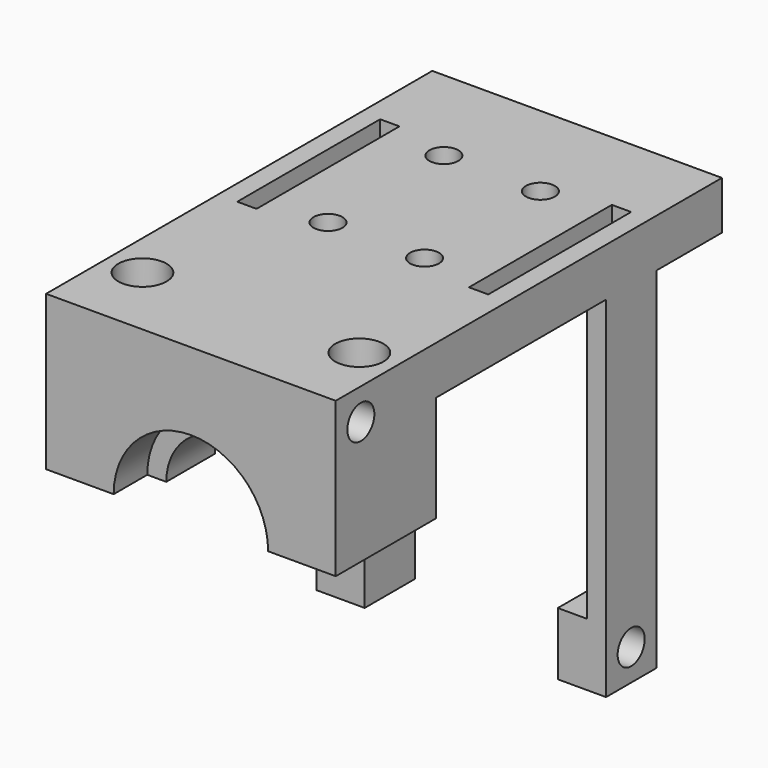
from build123d import *

# Parameters (mm, degrees)
SKETCH_W        = 30
SKETCH_H        = 50
PAD_DEPTH       = 5
SKETCH002_W     = 30
SKETCH002_H     = 13
PAD001_DEPTH    = 11
GROOVE_ANGLE    = 180
SKETCH004_R     = 2.5
POCKET_DEPTH    = 4
SKETCH005_R     = 1.5
POCKET001_DEPTH = 5
SKETCH006_R     = 3.5
POCKET002_DEPTH = 3
SKETCH008_R     = 1.75
POCKET003_DEPTH = 3
SKETCH009_W     = 2
SKETCH009_H     = 6.5
PAD002_DEPTH    = 36.25
SKETCH010_W     = 6.5
SKETCH010_H     = 6.5
PAD003_DEPTH    = 3
SKETCH011_R     = 1.75
POCKET004_DEPTH = 3
SKETCH012_W     = 2
SKETCH012_H     = 6.5000000001
PAD004_DEPTH    = 36.25
SKETCH013_W     = 6.5
SKETCH013_H     = 6.5
PAD005_DEPTH    = 3
SKETCH014_R     = 1.75
POCKET005_DEPTH = 3
SKETCH015_W     = 2
SKETCH015_H     = 18.5
POCKET006_DEPTH = 5
SKETCH034_R     = 2.5
POCKET013_DEPTH = 3


with BuildPart() as part:
    # Sketch → Pad (new body)
    with BuildSketch(Plane.XY):
        with Locations((15, 25)):
            Rectangle(SKETCH_W, SKETCH_H)
    extrude(amount=PAD_DEPTH)

    # Sketch002 (on Face5 of Pad) → Pad001 (join)
    with BuildSketch(Plane(origin=(0, 0, 0), x_dir=(1, 0, 0), z_dir=(0, 0, -1))):
        with Locations((15, -6.5)):
            Rectangle(SKETCH002_W, SKETCH002_H)
    extrude(amount=PAD001_DEPTH)

    # Sketch003 (on Face10 of Pad001) → Groove (revolve, cut)
    with BuildSketch(Plane(origin=(0, 0, -11), x_dir=(1, 0, 0), z_dir=(0, 0, -1))):
        Polygon((7, -13), (7, -10.65), (8.97, -10.65), (8.97, -4.35), (7, -4.35), (7, 1), (15, 1), (15, -13), align=None)
    revolve(axis=Axis((15, -1, -11), (0, 1, 0)), revolution_arc=GROOVE_ANGLE, mode=Mode.SUBTRACT)

    # Sketch004 (on Face10 of Groove) → Pocket (cut)
    with BuildSketch(Plane(origin=(0, 0, -11), x_dir=(1, 0, 0), z_dir=(0, 0, -1))):
        with Locations((3.5, -6.5)):
            Circle(SKETCH004_R)
        with Locations((26.5, -6.5)):
            Circle(SKETCH004_R)
    extrude(amount=-POCKET_DEPTH, mode=Mode.SUBTRACT)

    # Sketch005 (on Face7 of Pocket) → Pocket001 (cut)
    with BuildSketch(Plane(origin=(0, 0, 0), x_dir=(1, 0, 0), z_dir=(0, 0, -1))):
        with Locations((10, -24)):
            Circle(SKETCH005_R)
        with Locations((20, -24)):
            Circle(SKETCH005_R)
        with Locations((10, -39)):
            Circle(SKETCH005_R)
        with Locations((20, -39)):
            Circle(SKETCH005_R)
    extrude(amount=-POCKET001_DEPTH, mode=Mode.SUBTRACT)

    # Sketch006 (on Face7 of Pocket001) → Pocket002 (cut)
    with BuildSketch(Plane(origin=(0, 0, 0), x_dir=(1, 0, 0), z_dir=(0, 0, -1))):
        with Locations((10, -39)):
            Circle(SKETCH006_R)
        with Locations((10, -24)):
            Circle(SKETCH006_R)
        with Locations((20, -24)):
            Circle(SKETCH006_R)
        with Locations((20, -39)):
            Circle(SKETCH006_R)
    extrude(amount=-POCKET002_DEPTH, mode=Mode.SUBTRACT)

    # Sketch008 (on Face8 of Pocket002) → Pocket003 (cut)
    with BuildSketch(Plane(origin=(0, 0, 0), x_dir=(0, -1, 0), z_dir=(-1, 0, 0))):
        with Locations((-3.25, 1.75)):
            Circle(SKETCH008_R)
    extrude(amount=-POCKET003_DEPTH, mode=Mode.SUBTRACT)

    # Sketch009 (on Face6 of Pocket003) → Pad002 (join)
    with BuildSketch(Plane(origin=(0, 0, 0), x_dir=(1, 0, 0), z_dir=(0, 0, -1))):
        with Locations((1, -38.25)):
            Rectangle(SKETCH009_W, SKETCH009_H)
    extrude(amount=PAD002_DEPTH)

    # Sketch010 (on Face21 of Pad002) → Pad003 (join)
    with BuildSketch(Plane.YZ.offset(2)):
        with Locations((38.25, -33)):
            Rectangle(SKETCH010_W, SKETCH010_H)
    extrude(amount=PAD003_DEPTH)

    # Sketch011 (on Face7 of Pad003) → Pocket004 (cut)
    with BuildSketch(Plane(origin=(0, 0, 0), x_dir=(0, -1, 0), z_dir=(-1, 0, 0))):
        with Locations((-38.25, -33)):
            Circle(SKETCH011_R)
    extrude(amount=-POCKET004_DEPTH, mode=Mode.SUBTRACT)

    # Sketch012 (on Face6 of Pocket004) → Pad004 (join)
    with BuildSketch(Plane(origin=(0, 0, 0), x_dir=(1, 0, 0), z_dir=(0, 0, -1))):
        with Locations((29, -38.25)):
            Rectangle(SKETCH012_W, SKETCH012_H)
    extrude(amount=PAD004_DEPTH)

    # Sketch013 (on Face21 of Pad004) → Pad005 (join)
    with BuildSketch(Plane(origin=(28, 0, 0), x_dir=(0, -1, 0), z_dir=(-1, 0, 0))):
        with Locations((-38.25, -33)):
            Rectangle(SKETCH013_W, SKETCH013_H)
    extrude(amount=PAD005_DEPTH)

    # Sketch014 (on Face12 of Pad005) → Pocket005 (cut)
    with BuildSketch(Plane.YZ.offset(30)):
        with Locations((38.25, -33)):
            Circle(SKETCH014_R)
        with Locations((3.25, 1.75)):
            Circle(SKETCH014_R)
    extrude(amount=-POCKET005_DEPTH, mode=Mode.SUBTRACT)

    # Sketch015 (on Face5 of Pocket005) → Pocket006 (cut)
    with BuildSketch(Plane.XY.offset(5)):
        with Locations((3, 31.5)):
            Rectangle(SKETCH015_W, SKETCH015_H)
        with Locations((27, 31.5)):
            Rectangle(SKETCH015_W, SKETCH015_H)
    extrude(amount=-POCKET006_DEPTH, mode=Mode.SUBTRACT)

    # Sketch034 (on Face5 of Pocket006) → Pocket013 (cut)
    with BuildSketch(Plane.XY.offset(5)):
        with Locations((3.767766953, 7.767766953)):
            Circle(SKETCH034_R)
        with Locations((26.232233047, 7.767766953)):
            Circle(SKETCH034_R)
    extrude(amount=-POCKET013_DEPTH, mode=Mode.SUBTRACT)


solid = part.part
